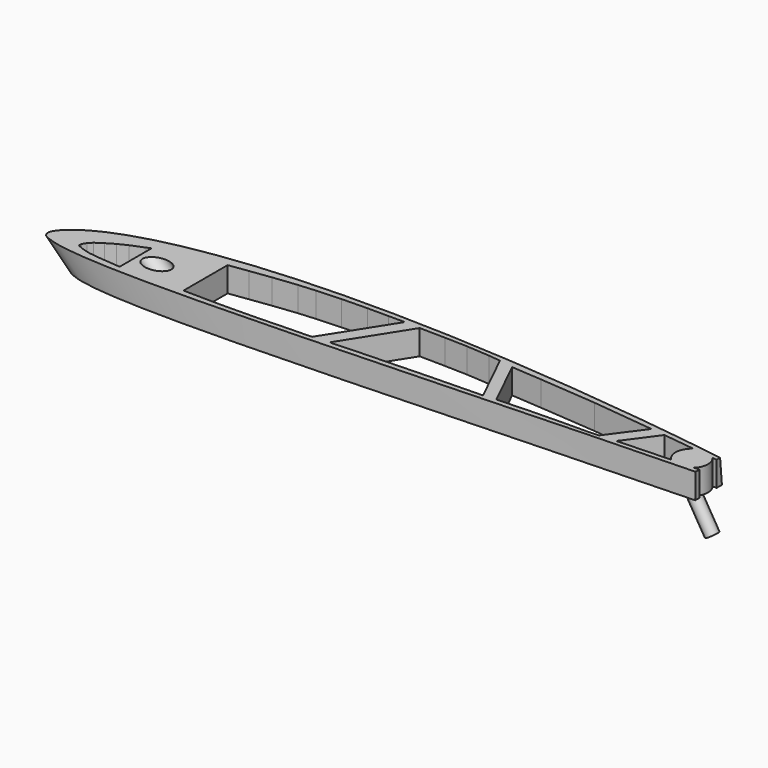
from build123d import *

# Parameters (mm, degrees)
SKETCH011_R     = 4.1
POCKET003_DEPTH = 1000
SKETCH026_W     = 1338.663483
SKETCH026_H     = 657.202179
POCKET012_DEPTH = 300
SKETCH027_W     = 784.297744
SKETCH027_H     = 228.753533
POCKET013_DEPTH = 290
POCKET023_DEPTH = 15
SKETCH041_R     = 6.5
PAD003_DEPTH    = 10
SKETCH042_R     = 2.5
PAD004_DEPTH    = 20
SKETCH051_W     = 84.720154
SKETCH051_H     = 17.730596
POCKET028_DEPTH = 15


with BuildPart() as part:
    # Sketch010 → AdditiveLoft003 section 0
    with BuildSketch(Plane.XY):
        with BuildLine():
            add(Edge.make_bspline(
                [(442, 0), (441.516482, 0.05985), (439.608661, 0.304392), (435.397729, 0.910974), (428.574856, 2.050787), (419.357172, 3.70148), (407.988015, 5.842425), (394.698211, 8.361511), (379.693029, 11.119858), (363.162801, 13.997331), (345.26298, 16.850624), (326.154422, 19.592319), (306.024603, 22.224467), (285.087437, 24.693135), (263.574681, 26.954707), (241.720258, 28.956147), (219.751231, 30.630726), (197.897907, 31.93252), (176.376671, 32.821617), (155.396014, 33.244603), (135.15065, 33.188213), (115.824376, 32.629564), (97.587476, 31.56887), (80.596225, 30.005784), (64.993081, 27.968424), (50.899514, 25.480303), (38.413049, 22.576942), (27.612464, 19.308312), (18.537399, 15.757674), (11.25959, 12.025676), (5.681209, 8.285847), (2.085717, 4.609671), (-0.247471, 1.339778), (0.311945, -2.351632), (4.312806, -4.086549), (9.630029, -5.736613), (17.536136, -6.998137), (27.548729, -7.995899), (39.778624, -8.638792), (54.057759, -8.977652), (70.277468, -9.020418), (88.270446, -8.806011), (107.851364, -8.369968), (128.803322, -7.757266), (150.891088, -7.009708), (173.8572, -6.171241), (197.434439, -5.258382), (221.347851, -4.314599), (245.320032, -3.359505), (269.074332, -2.428661), (292.331841, -1.542801), (314.820615, -0.740997), (336.263952, -0.054134), (356.390635, 0.471415), (374.915352, 0.819632), (391.616087, 0.995955), (406.124271, 0.998543), (418.5896, 0.838399), (427.79948, 0.669458), (436.147044, 0.281922), (438.208582, 0.287723), (442.482043, -0.059667), (442, 0)],
                knots=[0, 0, 0, 0, 1.461597, 5.77029, 12.762078, 22.212664, 33.86298, 47.468775, 62.792045, 79.632371, 97.804006, 117.167199, 137.543181, 158.706049, 180.412086, 202.435333, 224.541436, 246.507528, 268.108303, 289.156025, 309.457208, 328.838587, 347.151752, 364.251375, 380.016791, 394.345039, 407.169539, 418.451022, 428.175556, 436.348274, 442.987025, 448.138084, 451.892769, 454.490135, 458.080843, 463.78995, 471.700688, 481.805752, 494.068802, 508.3943, 524.664455, 542.72125, 562.377151, 583.420645, 605.603797, 628.678224, 652.364831, 676.388479, 700.474308, 724.338439, 747.706026, 770.297556, 791.846969, 812.070775, 830.691007, 847.452489, 862.104791, 874.428615, 884.234973, 891.369529, 895.711178, 897.168317, 897.168317, 897.168317, 897.168317], degree=3))
        make_face()
    # Sketch009 → AdditiveLoft003 section 1
    with BuildSketch(Plane(origin=(600, 0, -600), x_dir=(1, 0, 0), z_dir=(0, 0, 1))):
        with BuildLine():
            add(Edge.make_bspline(
                [(221, 0), (220.758241, 0.029925), (219.804331, 0.152196), (217.698864, 0.455487), (214.287428, 1.025393), (209.678586, 1.85074), (203.994008, 2.921212), (197.349106, 4.180756), (189.846514, 5.559929), (181.5814, 6.998665), (172.63149, 8.425312), (163.077211, 9.796159), (153.012301, 11.112233), (142.543719, 12.346568), (131.78734, 13.477353), (120.860129, 14.478073), (109.875616, 15.315363), (98.948954, 15.96626), (88.188336, 16.410808), (77.698007, 16.622301), (67.575325, 16.594107), (57.912188, 16.314782), (48.793738, 15.784435), (40.298113, 15.002892), (32.49654, 13.984212), (25.449757, 12.740151), (19.206525, 11.288471), (13.806232, 9.654156), (9.2687, 7.878837), (5.629795, 6.012838), (2.840604, 4.142924), (1.042858, 2.304836), (-0.123736, 0.669889), (0.155972, -1.175816), (2.156403, -2.043274), (4.815015, -2.868307), (8.768068, -3.499068), (13.774365, -3.997949), (19.889312, -4.319396), (27.028879, -4.488826), (35.138734, -4.510209), (44.135223, -4.403006), (53.925682, -4.184984), (64.401661, -3.878633), (75.445544, -3.504854), (86.9286, -3.08562), (98.71722, -2.629191), (110.673925, -2.157299), (122.660016, -1.679753), (134.537166, -1.21433), (146.165921, -0.771401), (157.410308, -0.370498), (168.131976, -0.027067), (178.195317, 0.235708), (187.457676, 0.409816), (195.808043, 0.497978), (203.062136, 0.499271), (209.2948, 0.4192), (213.89974, 0.334729), (218.073522, 0.140961), (219.104291, 0.143861), (221.241022, -0.029834), (221, 0)],
                knots=[0, 0, 0, 0, 0.730799, 2.885145, 6.381039, 11.106332, 16.93149, 23.734387, 31.396023, 39.816186, 48.902003, 58.583599, 68.77159, 79.353025, 90.206043, 101.217667, 112.270718, 123.253764, 134.054152, 144.578012, 154.728604, 164.419294, 173.575876, 182.125688, 190.008395, 197.172519, 203.58477, 209.225511, 214.087778, 218.174137, 221.493513, 224.069042, 225.946384, 227.245067, 229.040421, 231.894975, 235.850344, 240.902876, 247.034401, 254.19715, 262.332227, 271.360625, 281.188575, 291.710323, 302.801898, 314.339112, 326.182416, 338.19424, 350.237154, 362.16922, 373.853013, 385.148778, 395.923484, 406.035388, 415.345504, 423.726244, 431.052396, 437.214307, 442.117487, 445.684765, 447.855589, 448.584159, 448.584159, 448.584159, 448.584159], degree=3))
        make_face()
    loft()

    # Sketch011 (on DatumPlane) → Pocket003 (cut)
    with BuildSketch(Plane(origin=(0, 0, 0), x_dir=(0.707107, 0, 0.707107), z_dir=(-0.707107, 0, 0.707107))):
        with Locations((28.334262, 4.752984)):
            Circle(SKETCH011_R)
    extrude(amount=-POCKET003_DEPTH, mode=Mode.SUBTRACT)

    # Sketch026 (on Face1 of Pocket003) → Pocket012 (cut)
    with BuildSketch(Plane.XY):
        with Locations((324.340377, 19.738174)):
            Rectangle(SKETCH026_W, SKETCH026_H)
    extrude(amount=-POCKET012_DEPTH, mode=Mode.SUBTRACT)

    # Sketch027 (on Face3 of Pocket012) → Pocket013 (cut)
    with BuildSketch(Plane(origin=(0, 0, -600), x_dir=(1, 0, 0), z_dir=(0, 0, -1))):
        with Locations((589.115776, 14.834767)):
            Rectangle(SKETCH027_W, SKETCH027_H)
    extrude(amount=-POCKET013_DEPTH, mode=Mode.SUBTRACT)

    # Sketch040 (on Face2 of Pocket013) → Pocket023 (cut)
    with BuildSketch(Plane(origin=(0, 0, -310), x_dir=(1, 0, 0), z_dir=(0, 0, -1))):
        Polygon((332.03183, 3.927831), (332.03183, -12.056197), (330.395996, -11.418031), (325.234955, -9.317716), (321.544525, -7.543477), (318.350922, -5.627302), (315.441162, -3.711124), (314.021759, -2.220766), (313.099182, -0.659436), (312.957245, 0.476075), (313.595947, 0.901893), (315.654083, 1.753526), (318.776733, 2.60516), (322.325195, 3.101948), (327.434998, 3.527764), align=None)
        Polygon((596.655823, -2.475661), (596.655823, -4.902767), (568.723877, -9.511058), (547.0625, -12.280494), (536.786043, -13.553072), (527.534228, -0.989378), (547.95105, -1.76517), (582.087402, -2.616808), align=None)
        Polygon((531.002862, -14.220181), (520.899963, -0.500741), (515.762146, -0.310453), (506.533142, -0.26288), (493.641052, 0.022556), (480.563882, 0.541013), (470.67649, -19.74398), (482.916046, -18.85815), (505.94104, -17.002832), align=None)
        Polygon((475.563765, 0.974291), (464.96347, -20.773296), (460.180145, -21.283514), (450.77301, -21.921286), (441.844177, -22.176394), (431.488401, -22.338213), (415.511137, 2.89765), (427.590088, 2.380183), (453.04129, 1.523879), align=None)
        Polygon((425.327227, -22.616933), (408.844971, 3.416557), (398.718262, 3.65025), (388.942078, 4.000793), (379.161621, 4.156802), (371.687714, 4.234488), (357.782715, 4.06055), (357.782715, -18.081953), (365.436768, -19.134602), (373.76532, -20.257257), (383.402649, -21.354372), (390.32135, -21.876539), (400.064575, -22.397535), (410.411682, -22.605324), (418.714111, -22.579216), align=None)
    extrude(amount=-POCKET023_DEPTH, mode=Mode.SUBTRACT)

    # Sketch041 (on Face2 of Pocket023) → Pad003 (join)
    with BuildSketch(Plane(origin=(0, 0, -310), x_dir=(1, 0, 0), z_dir=(0, 0, -1))):
        with Locations((553.315672, -6.6)):
            Circle(SKETCH041_R)
    extrude(amount=-PAD003_DEPTH)

    # Sketch042 (on DatumPlane) → Pad004 (join)
    with BuildSketch(Plane(origin=(0, 0, -638), x_dir=(0.857493, 0, 0.514496), z_dir=(0.514496, 0, -0.857493))):
        with Locations((642.945779, -6.5)):
            Circle(SKETCH042_R)
    extrude(amount=PAD004_DEPTH)

    # Sketch051 (on Face2 of Pad004) → Pocket028 (cut)
    with BuildSketch(Plane(origin=(0, 0, -310), x_dir=(1, 0, 0), z_dir=(0, 0, -1))):
        with Locations((602.360077, -5.921813)):
            Rectangle(SKETCH051_W, SKETCH051_H)
    extrude(amount=-POCKET028_DEPTH, mode=Mode.SUBTRACT)


solid = part.part
